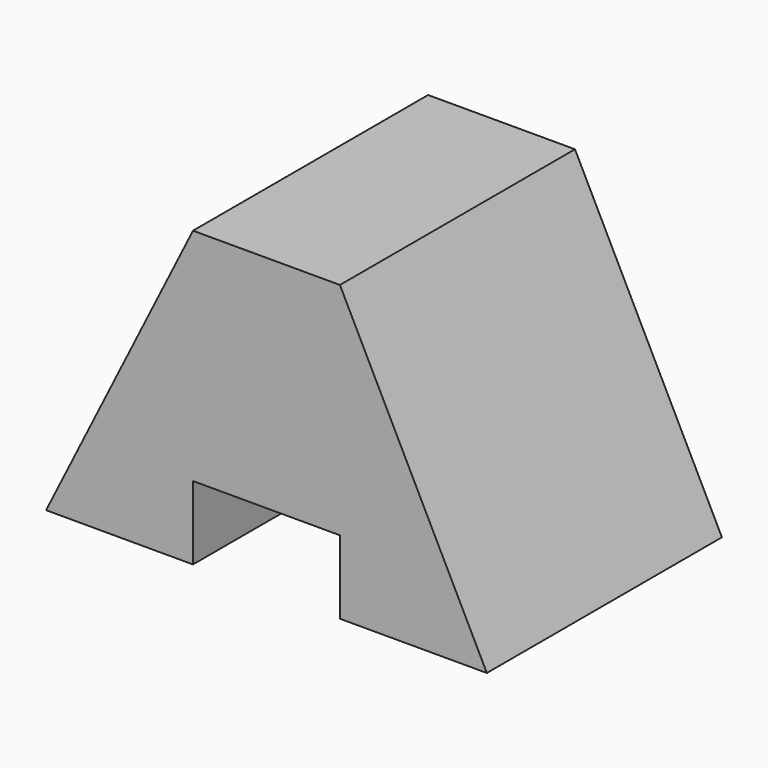
from build123d import *

# Parameters (mm, degrees)
F0_W     = 38.1
F0_H     = 25.4
F1_DEPTH = 25.4
F2_W     = 12.7
F2_H     = 6.35
F3_DEPTH = 25.4
F5_DEPTH = 25.4
F7_DEPTH = 25.4


with BuildPart() as f1:
    # F0 (on Front) → F1 (new body)
    with BuildSketch(Plane.XZ):
        with Locations((22.05119, 12.7)):
            Rectangle(F0_W, F0_H)
    extrude(amount=F1_DEPTH)

    # F2 (on face) → F3 (cut)
    with BuildSketch(Plane.XZ.offset(25.4)):
        with Locations((22.05119, 3.175)):
            Rectangle(F2_W, F2_H)
    extrude(amount=-F3_DEPTH, mode=Mode.SUBTRACT)

    # F4 (on face) → F5 (cut)
    with BuildSketch(Plane.XZ.offset(25.4)):
        Polygon((15.70119, 25.4), (3.00119, 25.4), (3.00119, 0), align=None)
    extrude(amount=-F5_DEPTH, mode=Mode.SUBTRACT)

    # F6 (on face) → F7 (cut)
    with BuildSketch(Plane.XZ.offset(25.4)):
        Polygon((41.10119, 0), (41.10119, 25.4), (28.40119, 25.4), align=None)
    extrude(amount=-F7_DEPTH, mode=Mode.SUBTRACT)


solid = f1.part
